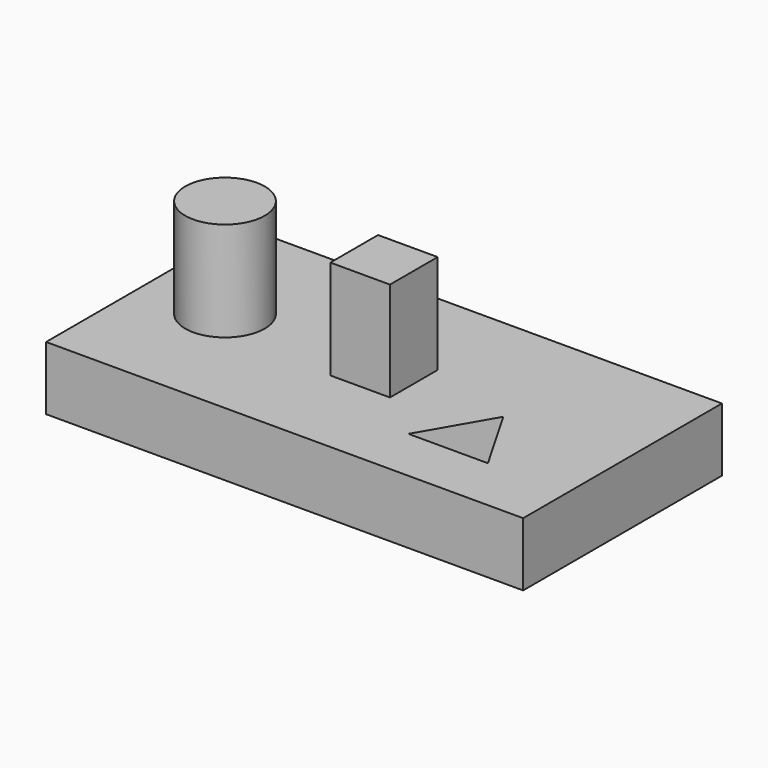
from build123d import *

# Parameters (mm, degrees)
F0_W     = 152.4
F0_H     = 79.375
F0_R     = 12.7
F0_W_2   = 19.05
F0_H_2   = 19.05
F1_DEPTH = 20.32
F2_DEPTH = 52.07
F3_W     = 19.05
F3_H     = 19.05
F4_DEPTH = 31.75


with BuildPart() as f1:
    # F0 (on Top) → F1 (new body)
    with BuildSketch(Plane.XY):
        with Locations((-31.75, 0)):
            Rectangle(F0_W, F0_H)
        Polygon((-6.35, -21.997045), (6.35, 0), (19.05, -21.997045), align=None, mode=Mode.SUBTRACT)
        with Locations((-82.55, 0)):
            Circle(F0_R, mode=Mode.SUBTRACT)
        with Locations((-31.75, 0)):
            Rectangle(F0_W_2, F0_H_2, mode=Mode.SUBTRACT)
    extrude(amount=F1_DEPTH)

    # F0 (on Top) → F2 (join)
    with BuildSketch(Plane.XY):
        with Locations((-82.55, 0)):
            Circle(F0_R)
    extrude(amount=F2_DEPTH)


with BuildPart() as f4:
    # F3 (on face) → F4 (new body)
    with BuildSketch(Plane.XY.offset(20.32)):
        with Locations((-31.75, 0)):
            Rectangle(F3_W, F3_H)
    extrude(amount=F4_DEPTH)


solid = Compound([f1.part, f4.part])
